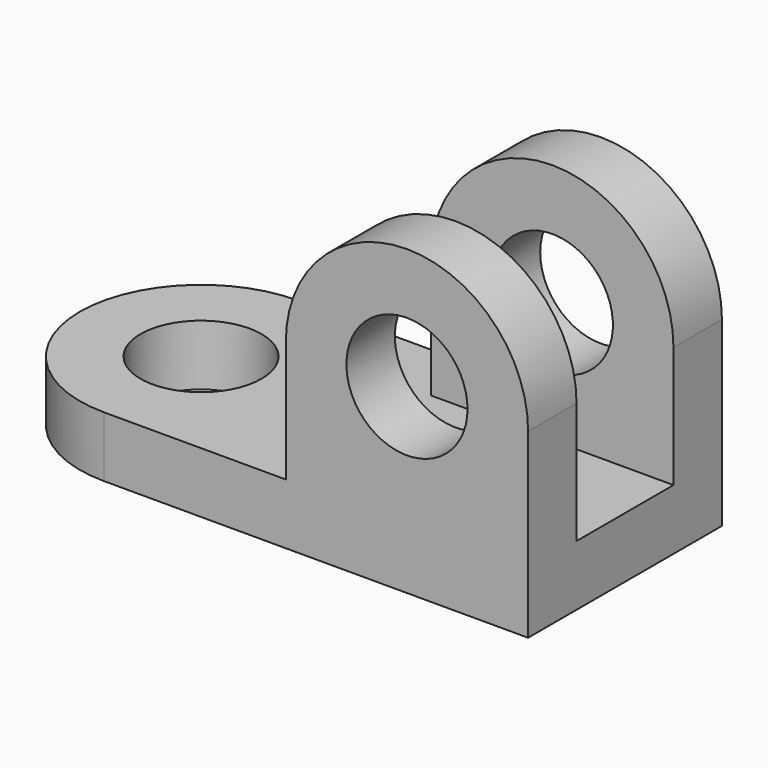
from build123d import *

# Parameters (mm, degrees)
F0_R     = 12.7
F1_DEPTH = 12.7
F2_R     = 12.7
F3_DEPTH = 12.7
F4_R     = 12.7
F5_DEPTH = 12.7


with BuildPart() as f1:
    # F0 (on Top) → F1 (new body)
    with BuildSketch(Plane.XY):
        with BuildLine():
            Line((-88.9, 0), (0, 0))
            Line((0, 0), (0, 50.8))
            Line((0, 50.8), (-88.9, 50.8))
            ThreePointArc((-88.9, 50.8), (-114.3, 25.4), (-88.9, 0))
        make_face()
        with Locations((-88.9, 25.4)):
            Circle(F0_R, mode=Mode.SUBTRACT)
    extrude(amount=F1_DEPTH)

    # F2 (on face) → F3 (join)
    with BuildSketch(Plane.XZ):
        with BuildLine():
            Line((-50.8, 0), (0, 0))
            Line((0, 0), (0, 38.1))
            ThreePointArc((0, 38.1), (-25.4, 63.5), (-50.8, 38.1))
            Line((-50.8, 38.1), (-50.8, 0))
        make_face()
        with Locations((-25.4, 38.1)):
            Circle(F2_R, mode=Mode.SUBTRACT)
    extrude(amount=-F3_DEPTH)

    # F4 (on face) → F5 (join)
    with BuildSketch(Plane(origin=(0, 50.8, 0), x_dir=(-1, 0, 0), z_dir=(0, 1, 0))):
        with BuildLine():
            Line((0, 38.1), (0, 0))
            Line((0, 0), (50.8, 0))
            Line((50.8, 0), (50.8, 38.1))
            ThreePointArc((50.8, 38.1), (25.4, 63.5), (0, 38.1))
        make_face()
        with Locations((25.4, 38.1)):
            Circle(F4_R, mode=Mode.SUBTRACT)
    extrude(amount=-F5_DEPTH)


solid = f1.part
